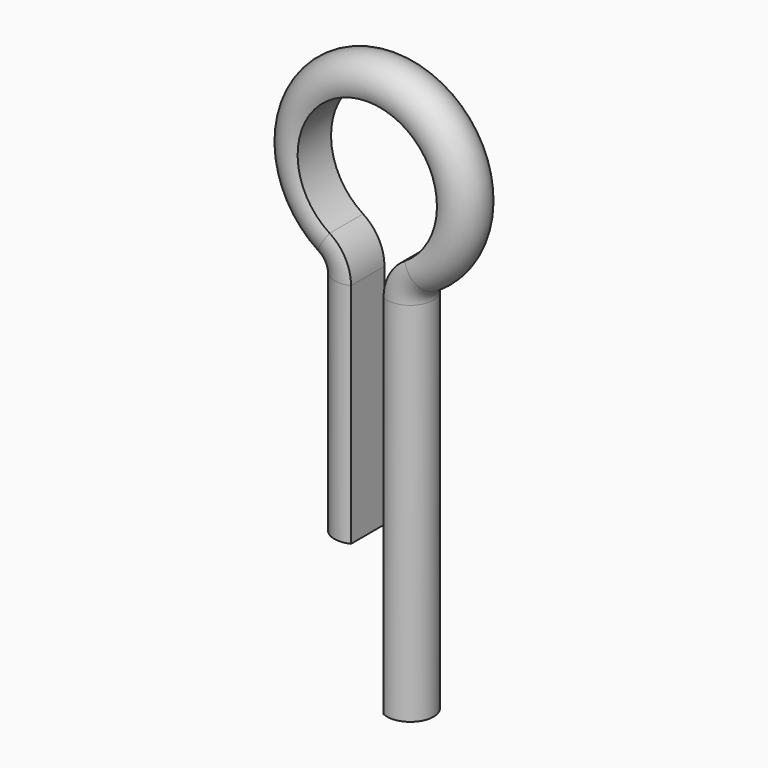
from build123d import *


with BuildPart() as f2:
    # F2: sweep along a path in F0
    with BuildLine(Plane.XZ) as f2_path:
        Line((0, 0), (0, 48.958375))
        ThreePointArc((0, 48.958375), (-1.225036, 53.754206), (-4.6, 57.375025))
        ThreePointArc((-4.6, 57.375025), (3.5, 85), (11.6, 57.375025))
        ThreePointArc((11.6, 57.375025), (8.225036, 53.754206), (7, 48.958375))
        Line((7, 48.958375), (7, -30))
    # F1 (on Top) → F2 (sweep)
    with BuildSketch(Plane.XY):
        with BuildLine():
            Line((0, -4.5), (0, 4.5))
            ThreePointArc((0, 4.5), (-7.179449, 0), (0, -4.5))
        make_face()
    sweep(path=f2_path.line)


solid = f2.part
